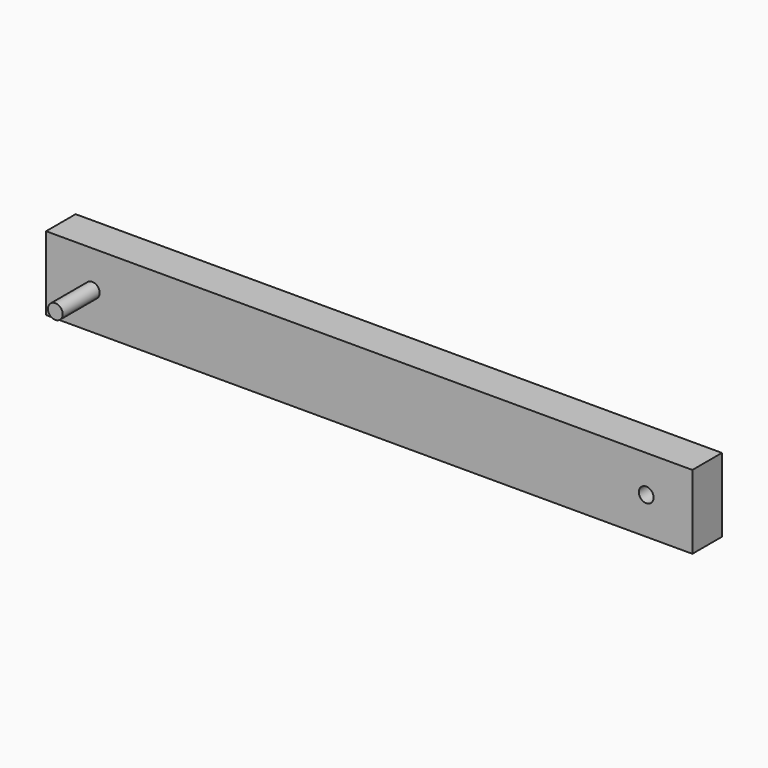
from build123d import *

# Parameters (mm, degrees)
F0_W     = 350
F0_H     = 40
F1_DEPTH = 20
F2_R     = 4
F3_DEPTH = 25
F4_R     = 4
F5_DEPTH = 25


with BuildPart() as f1:
    # F0 (on Front) → F1 (new body)
    with BuildSketch(Plane.XZ):
        Rectangle(F0_W, F0_H)
    extrude(amount=F1_DEPTH)

    # F2 (on face) → F3 (join)
    with BuildSketch(Plane.XZ.offset(20)):
        with Locations((-150, 0)):
            Circle(F2_R)
    extrude(amount=F3_DEPTH)

    # F4 (on face) → F5 (cut)
    with BuildSketch(Plane.XZ.offset(20)):
        with Locations((150, 0)):
            Circle(F4_R)
    extrude(amount=-F5_DEPTH, mode=Mode.SUBTRACT)


solid = f1.part
